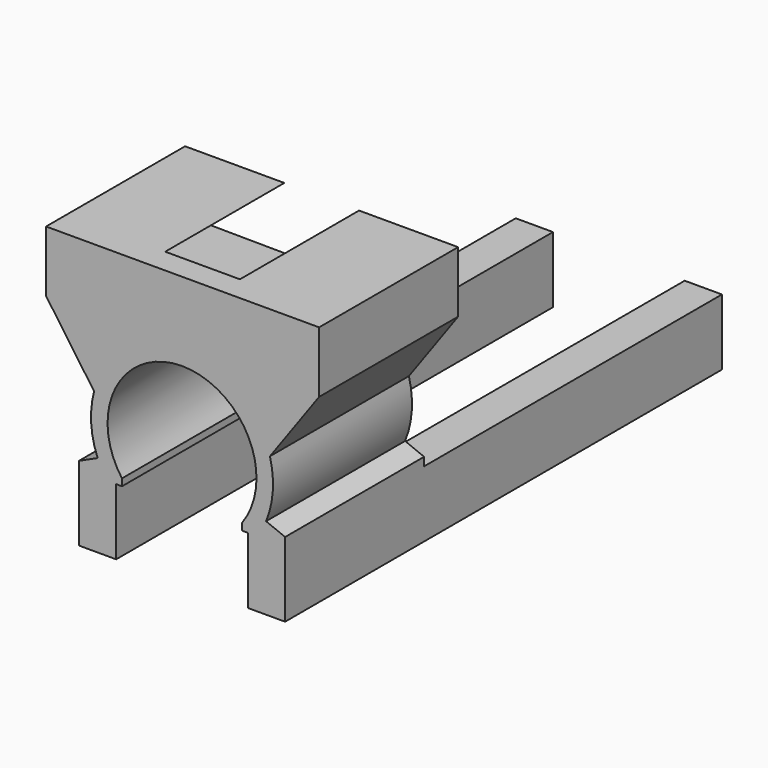
from build123d import *

# Parameters (mm, degrees)
F1_DEPTH = 7
F2_DEPTH = 6
F3_DEPTH = 15


with BuildPart() as f1:
    # F0 (on Front) → F1 (new body)
    with BuildSketch(Plane.XZ):
        with BuildLine():
            ThreePointArc((-3.477884, 0.719832), (-3.596369, -0.44229), (-3.343322, -1.5827))
            Line((-3.343322, -1.5827), (-3.322458, -1.593981))
            Line((-3.322458, -1.593981), (-3.322458, -2.283465))
            Line((-3.322458, -2.283465), (-2.589551, -2.283465))
            Line((-2.589551, -2.283465), (-2.355576, -2.283465))
            Line((-2.355576, -2.283465), (-2.355576, -2.00205))
            ThreePointArc((-2.355576, -2.00205), (0.063946, 2.771621), (2.483469, -2.00205))
            Line((2.483469, -2.00205), (2.483469, -2.283465))
            Line((2.483469, -2.283465), (2.717444, -2.283465))
            Line((2.717444, -2.283465), (3.450351, -2.283465))
            Line((3.450351, -2.283465), (3.450351, -1.634055))
            ThreePointArc((3.450351, -1.634055), (3.72254, -0.469953), (3.605777, 0.719832))
            ThreePointArc((3.605777, 0.719832), (2.307299, 2.6718), (0.091662, 3.438077))
            ThreePointArc((0.091662, 3.438077), (-2.157419, 2.688675), (-3.477884, 0.719832))
        make_face()
        Polygon((-3.322458, -2.283465), (-3.322458, -1.593981), (-4.089551, -1.943924), (-4.089551, -2.283465), align=None)
        with BuildLine():
            Line((-5.413338, 3.472093), (-3.477884, 0.719832))
            ThreePointArc((-3.477884, 0.719832), (-2.157419, 2.688675), (0.091662, 3.438077))
            Line((0.091662, 3.438077), (-4.408209, 3.472093))
            Line((-4.408209, 3.472093), (-1.413338, 5.938077))
            Line((-1.413338, 5.938077), (-5.413338, 5.938077))
            Line((-5.413338, 5.938077), (-5.413338, 3.472093))
        make_face()
        Polygon((-2.589551, -2.283465), (-3.322458, -2.283465), (-4.089551, -2.283465), (-4.089551, -4.949721), (-3.322458, -4.949721), (-2.589551, -4.949721), align=None)
        with BuildLine():
            Line((4.591534, 3.404061), (0.091662, 3.438077))
            ThreePointArc((0.091662, 3.438077), (2.307299, 2.6718), (3.605777, 0.719832))
            Line((3.605777, 0.719832), (5.587751, 3.472093))
            Line((5.587751, 3.472093), (5.587751, 5.938077))
            Line((5.587751, 5.938077), (1.596662, 5.938077))
            Line((1.596662, 5.938077), (4.591534, 3.404061))
        make_face()
        Polygon((-4.408209, 3.472093), (0.091662, 3.438077), (4.591534, 3.404061), (1.596662, 5.938077), (-1.413338, 5.938077), align=None)
        Polygon((4.217444, -1.943924), (3.450351, -1.634055), (3.450351, -2.283465), (4.217444, -2.283465), align=None)
        Polygon((4.217444, -2.283465), (3.450351, -2.283465), (2.717444, -2.283465), (2.717444, -4.949721), (3.450351, -4.949721), (4.217444, -4.949721), align=None)
    extrude(amount=F1_DEPTH)

    # F0 (on Front) → F2 (cut)
    with BuildSketch(Plane.XZ):
        Polygon((-4.408209, 3.472093), (0.091662, 3.438077), (4.591534, 3.404061), (1.596662, 5.938077), (-1.413338, 5.938077), align=None)
    extrude(amount=F2_DEPTH, mode=Mode.SUBTRACT)

    # F0 (on Front) → F3 (join)
    with BuildSketch(Plane.XZ):
        Polygon((4.217444, -2.283465), (3.450351, -2.283465), (2.717444, -2.283465), (2.717444, -4.949721), (3.450351, -4.949721), (4.217444, -4.949721), align=None)
        Polygon((-2.589551, -2.283465), (-3.322458, -2.283465), (-4.089551, -2.283465), (-4.089551, -4.949721), (-3.322458, -4.949721), (-2.589551, -4.949721), align=None)
    extrude(amount=-F3_DEPTH)


solid = f1.part
